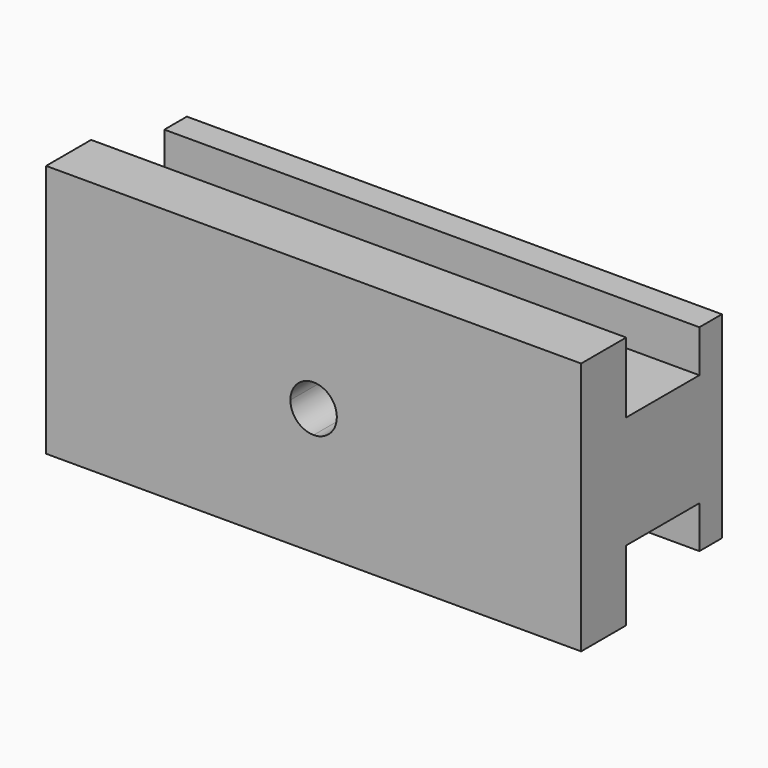
from build123d import *

# Parameters (mm, degrees)
F1_DEPTH = 38
F3_DEPTH = 25


with BuildPart() as f1:
    # F0 (on Right) → F1 (new body)
    with BuildSketch(Plane.YZ):
        Polygon((15, 19), (15, 20), (15, 24), (11, 24), (11, 15), (11, 6), (15, 6), (15, 10), (15, 11), (21.5, 11), (21.5, 8), (23.5, 8), (23.5, 15), (23.5, 22), (21.5, 22), (21.5, 19), align=None)
    extrude(amount=F1_DEPTH)

    # F2 (on face) → F3 (cut)
    with BuildSketch(Plane(origin=(0, 23.5, 0), x_dir=(-1, 0, 0), z_dir=(0, 1, 0))):
        with BuildLine():
            ThreePointArc((-17.35, 15), (-17.833274, 16.166726), (-19, 16.65))
            Line((-19, 16.65), (-19, 13.35))
            ThreePointArc((-19, 13.35), (-17.833274, 13.833274), (-17.35, 15))
        make_face()
        with BuildLine():
            Line((-19, 13.35), (-19, 16.65))
            ThreePointArc((-19, 16.65), (-20.65, 15), (-19, 13.35))
        make_face()
    extrude(amount=-F3_DEPTH, mode=Mode.SUBTRACT)


solid = f1.part
